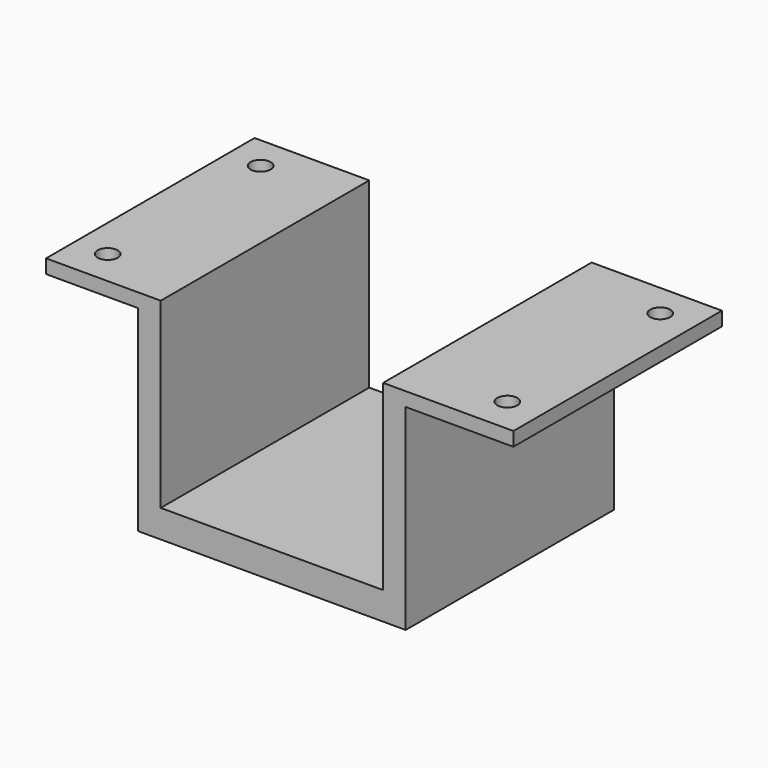
from build123d import *

# Parameters (mm, degrees)
PAD002_DEPTH   = 75
SKETCH006_R    = 2.9
HOLE002_DEPTH  = 25
HOLE002_TIPS_R = 2.9


with BuildPart() as part:
    # Sketch005 → Pad002 (new body)
    with BuildSketch(Plane.XZ):
        Polygon((-38, 0), (-0.5, 0), (-0.5, -4), (-31.5, -4), (-31.5, -60.5), (-108.5, -60.5), (-108.5, -4), (-135, -4), (-135, 0), (-102, 0), (-102, -52.5), (-38, -52.5), align=None)
    extrude(amount=-PAD002_DEPTH)

    # Sketch006 → Hole002 (cut)
    with BuildSketch(Plane.XY):
        with Locations((-125.500002, 10.3)):
            Circle(SKETCH006_R)
        with Locations((-125.500002, 65.3)):
            Circle(SKETCH006_R)
        with Locations((-10.500002, 10.3)):
            Circle(SKETCH006_R)
        with Locations((-10.500002, 65.3)):
            Circle(SKETCH006_R)
    extrude(amount=-HOLE002_DEPTH, mode=Mode.SUBTRACT)

    # Hole002 tips → Hole002 tip 1 section 0
    with BuildSketch(Plane.XY.offset(-25), mode=Mode.PRIVATE) as hole002_tip_1_s0:
        with Locations((-125.500002, 10.3)):
            Circle(HOLE002_TIPS_R)
    loft([hole002_tip_1_s0.sketch, Vertex(-125.500002, 10.3, -26.742496)], mode=Mode.SUBTRACT)

    # Hole002 tips → Hole002 tip 2 section 0
    with BuildSketch(Plane.XY.offset(-25), mode=Mode.PRIVATE) as hole002_tip_2_s0:
        with Locations((-125.500002, 65.3)):
            Circle(HOLE002_TIPS_R)
    loft([hole002_tip_2_s0.sketch, Vertex(-125.500002, 65.3, -26.742496)], mode=Mode.SUBTRACT)

    # Hole002 tips → Hole002 tip 3 section 0
    with BuildSketch(Plane.XY.offset(-25), mode=Mode.PRIVATE) as hole002_tip_3_s0:
        with Locations((-10.500002, 10.3)):
            Circle(HOLE002_TIPS_R)
    loft([hole002_tip_3_s0.sketch, Vertex(-10.500002, 10.3, -26.742496)], mode=Mode.SUBTRACT)

    # Hole002 tips → Hole002 tip 4 section 0
    with BuildSketch(Plane.XY.offset(-25), mode=Mode.PRIVATE) as hole002_tip_4_s0:
        with Locations((-10.500002, 65.3)):
            Circle(HOLE002_TIPS_R)
    loft([hole002_tip_4_s0.sketch, Vertex(-10.500002, 65.3, -26.742496)], mode=Mode.SUBTRACT)


with BuildPart() as part_1:
    # Body002 placement: moved
    add(part.part.moved(Location((70, 265, 0))))


solid = part_1.part
